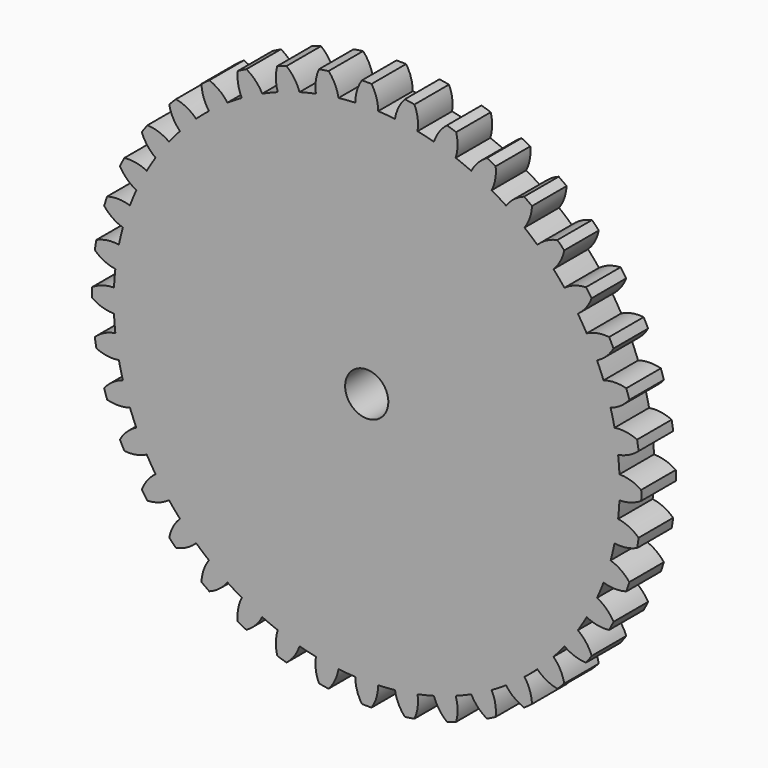
from build123d import *

# Parameters (mm, degrees)
F1_DEPTH = 3
F2_R     = 1.5
F3_DEPTH = 3.001
F4_R     = 3
F4_R_2   = 1.5
F5_DEPTH = 3


with BuildPart() as f1:
    # F0 (on Front) → F1 (new body)
    with BuildSketch(Plane.XZ):
        with BuildLine():
            ThreePointArc((17.552015, -0.794783), (17.565503, -0.397493), (17.57, 0))
            ThreePointArc((17.57, 0), (17.565503, 0.397493), (17.552015, 0.794783))
            ThreePointArc((17.552015, 0.794783), (17.515838, 1.378526), (17.460252, 1.960742))
            ThreePointArc((17.460252, 1.960742), (17.353684, 2.748554), (17.211589, 3.530738))
            ThreePointArc((17.211589, 3.530738), (17.08454, 4.101635), (16.93856, 4.667987))
            ThreePointArc((16.93856, 4.667987), (16.710063, 5.429429), (16.447356, 6.179755))
            ThreePointArc((16.447356, 6.179755), (16.232563, 6.723748), (15.999784, 7.260291))
            ThreePointArc((15.999784, 7.260291), (15.654985, 7.976613), (15.278135, 8.676605))
            ThreePointArc((15.278135, 8.676605), (14.980888, 9.1803), (14.66704, 9.673822))
            ThreePointArc((14.66704, 9.673822), (14.214429, 10.327387), (13.732716, 10.959809))
            ThreePointArc((13.732716, 10.959809), (13.360333, 11.410802), (12.973145, 11.849152))
            ThreePointArc((12.973145, 11.849152), (12.423866, 12.423866), (11.849152, 12.973145))
            ThreePointArc((11.849152, 12.973145), (11.410802, 13.360333), (10.959809, 13.732716))
            ThreePointArc((10.959809, 13.732716), (10.327387, 14.214429), (9.673822, 14.66704))
            ThreePointArc((9.673822, 14.66704), (9.1803, 14.980888), (8.676605, 15.278135))
            ThreePointArc((8.676605, 15.278135), (7.976613, 15.654985), (7.260291, 15.999784))
            ThreePointArc((7.260291, 15.999784), (6.723748, 16.232563), (6.179755, 16.447356))
            ThreePointArc((6.179755, 16.447356), (5.429429, 16.710063), (4.667987, 16.93856))
            ThreePointArc((4.667987, 16.93856), (4.101635, 17.08454), (3.530738, 17.211589))
            ThreePointArc((3.530738, 17.211589), (2.748554, 17.353684), (1.960742, 17.460252))
            ThreePointArc((1.960742, 17.460252), (1.378526, 17.515838), (0.794783, 17.552015))
            ThreePointArc((0.794783, 17.552015), (0, 17.57), (-0.794783, 17.552015))
            ThreePointArc((-0.794783, 17.552015), (-1.378526, 17.515838), (-1.960742, 17.460252))
            ThreePointArc((-1.960742, 17.460252), (-2.748554, 17.353684), (-3.530738, 17.211589))
            ThreePointArc((-3.530738, 17.211589), (-4.101635, 17.08454), (-4.667987, 16.93856))
            ThreePointArc((-4.667987, 16.93856), (-5.429429, 16.710063), (-6.179755, 16.447356))
            ThreePointArc((-6.179755, 16.447356), (-6.723748, 16.232563), (-7.260291, 15.999784))
            ThreePointArc((-7.260291, 15.999784), (-7.976613, 15.654985), (-8.676605, 15.278135))
            ThreePointArc((-8.676605, 15.278135), (-9.1803, 14.980888), (-9.673822, 14.66704))
            ThreePointArc((-9.673822, 14.66704), (-10.327387, 14.214429), (-10.959809, 13.732716))
            ThreePointArc((-10.959809, 13.732716), (-11.410802, 13.360333), (-11.849152, 12.973145))
            ThreePointArc((-11.849152, 12.973145), (-12.423866, 12.423866), (-12.973145, 11.849152))
            ThreePointArc((-12.973145, 11.849152), (-13.360333, 11.410802), (-13.732716, 10.959809))
            ThreePointArc((-13.732716, 10.959809), (-14.214429, 10.327387), (-14.66704, 9.673822))
            ThreePointArc((-14.66704, 9.673822), (-14.980888, 9.1803), (-15.278135, 8.676605))
            ThreePointArc((-15.278135, 8.676605), (-15.654985, 7.976613), (-15.999784, 7.260291))
            ThreePointArc((-15.999784, 7.260291), (-16.232563, 6.723748), (-16.447356, 6.179755))
            ThreePointArc((-16.447356, 6.179755), (-16.710063, 5.429429), (-16.93856, 4.667987))
            ThreePointArc((-16.93856, 4.667987), (-17.08454, 4.101635), (-17.211589, 3.530738))
            ThreePointArc((-17.211589, 3.530738), (-17.353684, 2.748554), (-17.460252, 1.960742))
            ThreePointArc((-17.460252, 1.960742), (-17.515838, 1.378526), (-17.552015, 0.794783))
            ThreePointArc((-17.552015, 0.794783), (-17.57, 0), (-17.552015, -0.794783))
            ThreePointArc((-17.552015, -0.794783), (-17.515838, -1.378526), (-17.460252, -1.960742))
            ThreePointArc((-17.460252, -1.960742), (-17.353684, -2.748554), (-17.211589, -3.530738))
            ThreePointArc((-17.211589, -3.530738), (-17.08454, -4.101635), (-16.93856, -4.667987))
            ThreePointArc((-16.93856, -4.667987), (-16.710063, -5.429429), (-16.447356, -6.179755))
            ThreePointArc((-16.447356, -6.179755), (-16.232563, -6.723748), (-15.999784, -7.260291))
            ThreePointArc((-15.999784, -7.260291), (-15.654985, -7.976613), (-15.278135, -8.676605))
            ThreePointArc((-15.278135, -8.676605), (-14.980888, -9.1803), (-14.66704, -9.673822))
            ThreePointArc((-14.66704, -9.673822), (-14.214429, -10.327387), (-13.732716, -10.959809))
            ThreePointArc((-13.732716, -10.959809), (-13.360333, -11.410802), (-12.973145, -11.849152))
            ThreePointArc((-12.973145, -11.849152), (-12.423866, -12.423866), (-11.849152, -12.973145))
            ThreePointArc((-11.849152, -12.973145), (-11.410802, -13.360333), (-10.959809, -13.732716))
            ThreePointArc((-10.959809, -13.732716), (-10.327387, -14.214429), (-9.673822, -14.66704))
            ThreePointArc((-9.673822, -14.66704), (-9.1803, -14.980888), (-8.676605, -15.278135))
            ThreePointArc((-8.676605, -15.278135), (-7.976613, -15.654985), (-7.260291, -15.999784))
            ThreePointArc((-7.260291, -15.999784), (-6.723748, -16.232563), (-6.179755, -16.447356))
            ThreePointArc((-6.179755, -16.447356), (-5.429429, -16.710063), (-4.667987, -16.93856))
            ThreePointArc((-4.667987, -16.93856), (-4.101635, -17.08454), (-3.530738, -17.211589))
            ThreePointArc((-3.530738, -17.211589), (-2.748554, -17.353684), (-1.960742, -17.460252))
            ThreePointArc((-1.960742, -17.460252), (-1.378526, -17.515838), (-0.794783, -17.552015))
            ThreePointArc((-0.794783, -17.552015), (0, -17.57), (0.794783, -17.552015))
            ThreePointArc((0.794783, -17.552015), (1.378526, -17.515838), (1.960742, -17.460252))
            ThreePointArc((1.960742, -17.460252), (2.748554, -17.353684), (3.530738, -17.211589))
            ThreePointArc((3.530738, -17.211589), (4.101635, -17.08454), (4.667987, -16.93856))
            ThreePointArc((4.667987, -16.93856), (5.429429, -16.710063), (6.179755, -16.447356))
            ThreePointArc((6.179755, -16.447356), (6.723748, -16.232563), (7.260291, -15.999784))
            ThreePointArc((7.260291, -15.999784), (7.976613, -15.654985), (8.676605, -15.278135))
            ThreePointArc((8.676605, -15.278135), (9.1803, -14.980888), (9.673822, -14.66704))
            ThreePointArc((9.673822, -14.66704), (10.327387, -14.214429), (10.959809, -13.732716))
            ThreePointArc((10.959809, -13.732716), (11.410802, -13.360333), (11.849152, -12.973145))
            ThreePointArc((11.849152, -12.973145), (12.423866, -12.423866), (12.973145, -11.849152))
            ThreePointArc((12.973145, -11.849152), (13.360333, -11.410802), (13.732716, -10.959809))
            ThreePointArc((13.732716, -10.959809), (14.214429, -10.327387), (14.66704, -9.673822))
            ThreePointArc((14.66704, -9.673822), (14.980888, -9.1803), (15.278135, -8.676605))
            ThreePointArc((15.278135, -8.676605), (15.654985, -7.976613), (15.999784, -7.260291))
            ThreePointArc((15.999784, -7.260291), (16.232563, -6.723748), (16.447356, -6.179755))
            ThreePointArc((16.447356, -6.179755), (16.710063, -5.429429), (16.93856, -4.667987))
            ThreePointArc((16.93856, -4.667987), (17.08454, -4.101635), (17.211589, -3.530738))
            ThreePointArc((17.211589, -3.530738), (17.353684, -2.748554), (17.460252, -1.960742))
            ThreePointArc((17.460252, -1.960742), (17.515838, -1.378526), (17.552015, -0.794783))
        make_face()
        with BuildLine():
            ThreePointArc((17.552015, 0.794783), (17.565503, 0.397493), (17.57, 0))
            ThreePointArc((17.57, 0), (17.565503, -0.397493), (17.552015, -0.794783))
            ThreePointArc((17.552015, -0.794783), (18.343122, -0.677387), (19.067016, -0.33737))
            ThreePointArc((19.067016, -0.33737), (19.07, 0), (19.067016, 0.33737))
            ThreePointArc((19.067016, 0.33737), (18.343122, 0.677387), (17.552015, 0.794783))
        make_face()
        with BuildLine():
            ThreePointArc((17.211589, 3.530738), (17.353684, 2.748554), (17.460252, 1.960742))
            ThreePointArc((17.460252, 1.960742), (18.223254, 2.20045), (18.885045, 2.649522))
            ThreePointArc((18.885045, 2.649522), (18.835217, 2.983205), (18.779493, 3.315955))
            ThreePointArc((18.779493, 3.315955), (18.011321, 3.538543), (17.211589, 3.530738))
        make_face()
        with BuildLine():
            ThreePointArc((18.885045, -2.649522), (18.223254, -2.20045), (17.460252, -1.960742))
            ThreePointArc((17.460252, -1.960742), (17.353684, -2.748554), (17.211589, -3.530738))
            ThreePointArc((17.211589, -3.530738), (18.011321, -3.538543), (18.779493, -3.315955))
            ThreePointArc((18.779493, -3.315955), (18.835217, -2.983205), (18.885045, -2.649522))
        make_face()
        with BuildLine():
            ThreePointArc((16.447356, 6.179755), (16.710063, 5.429429), (16.93856, 4.667987))
            ThreePointArc((16.93856, 4.667987), (17.65467, 5.024103), (18.238062, 5.571174))
            ThreePointArc((18.238062, 5.571174), (18.136648, 5.892954), (18.029556, 6.21289))
            ThreePointArc((18.029556, 6.21289), (17.236022, 6.312569), (16.447356, 6.179755))
        make_face()
        with BuildLine():
            ThreePointArc((18.238062, -5.571174), (17.65467, -5.024103), (16.93856, -4.667987))
            ThreePointArc((16.93856, -4.667987), (16.710063, -5.429429), (16.447356, -6.179755))
            ThreePointArc((16.447356, -6.179755), (17.236022, -6.312569), (18.029556, -6.21289))
            ThreePointArc((18.029556, -6.21289), (18.136648, -5.892954), (18.238062, -5.571174))
        make_face()
        with BuildLine():
            ThreePointArc((15.278135, 8.676605), (15.654985, 7.976613), (15.999784, 7.260291))
            ThreePointArc((15.999784, 7.260291), (16.651369, 7.724047), (17.141998, 8.355645))
            ThreePointArc((17.141998, 8.355645), (16.991494, 8.657599), (16.835672, 8.956843))
            ThreePointArc((16.835672, 8.956843), (16.036314, 8.931159), (15.278135, 8.676605))
        make_face()
        with BuildLine():
            ThreePointArc((17.141998, -8.355645), (16.651369, -7.724047), (15.999784, -7.260291))
            ThreePointArc((15.999784, -7.260291), (15.654985, -7.976613), (15.278135, -8.676605))
            ThreePointArc((15.278135, -8.676605), (16.036314, -8.931159), (16.835672, -8.956843))
            ThreePointArc((16.835672, -8.956843), (16.991494, -8.657599), (17.141998, -8.355645))
        make_face()
        with BuildLine():
            ThreePointArc((13.732716, 10.959809), (14.214429, 10.327387), (14.66704, 9.673822))
            ThreePointArc((14.66704, 9.673822), (15.238055, 10.233799), (15.623841, 10.934372))
            ThreePointArc((15.623841, 10.934372), (15.427954, 11.209065), (15.227238, 11.480249))
            ThreePointArc((15.227238, 11.480249), (14.44174, 11.329834), (13.732716, 10.959809))
        make_face()
        with BuildLine():
            ThreePointArc((15.623841, -10.934372), (15.238055, -10.233799), (14.66704, -9.673822))
            ThreePointArc((14.66704, -9.673822), (14.214429, -10.327387), (13.732716, -10.959809))
            ThreePointArc((13.732716, -10.959809), (14.44174, -11.329834), (15.227238, -11.480249))
            ThreePointArc((15.227238, -11.480249), (15.427954, -11.209065), (15.623841, -10.934372))
        make_face()
        with BuildLine():
            ThreePointArc((11.849152, 12.973145), (12.423866, 12.423866), (12.973145, 11.849152))
            ThreePointArc((12.973145, 11.849152), (13.449531, 12.491561), (13.720973, 13.243859))
            ThreePointArc((13.720973, 13.243859), (13.484526, 13.484526), (13.243859, 13.720973))
            ThreePointArc((13.243859, 13.720973), (12.491561, 13.449531), (11.849152, 12.973145))
        make_face()
        with BuildLine():
            ThreePointArc((13.720973, -13.243859), (13.449531, -12.491561), (12.973145, -11.849152))
            ThreePointArc((12.973145, -11.849152), (12.423866, -12.423866), (11.849152, -12.973145))
            ThreePointArc((11.849152, -12.973145), (12.491561, -13.449531), (13.243859, -13.720973))
            ThreePointArc((13.243859, -13.720973), (13.484526, -13.484526), (13.720973, -13.243859))
        make_face()
        with BuildLine():
            ThreePointArc((9.673822, 14.66704), (10.327387, 14.214429), (10.959809, 13.732716))
            ThreePointArc((10.959809, 13.732716), (11.329834, 14.44174), (11.480249, 15.227238))
            ThreePointArc((11.480249, 15.227238), (11.209065, 15.427954), (10.934372, 15.623841))
            ThreePointArc((10.934372, 15.623841), (10.233799, 15.238055), (9.673822, 14.66704))
        make_face()
        with BuildLine():
            ThreePointArc((11.480249, -15.227238), (11.329834, -14.44174), (10.959809, -13.732716))
            ThreePointArc((10.959809, -13.732716), (10.327387, -14.214429), (9.673822, -14.66704))
            ThreePointArc((9.673822, -14.66704), (10.233799, -15.238055), (10.934372, -15.623841))
            ThreePointArc((10.934372, -15.623841), (11.209065, -15.427954), (11.480249, -15.227238))
        make_face()
        with BuildLine():
            ThreePointArc((7.260291, 15.999784), (7.976613, 15.654985), (8.676605, 15.278135))
            ThreePointArc((8.676605, 15.278135), (8.931159, 16.036314), (8.956843, 16.835672))
            ThreePointArc((8.956843, 16.835672), (8.657599, 16.991494), (8.355645, 17.141998))
            ThreePointArc((8.355645, 17.141998), (7.724047, 16.651369), (7.260291, 15.999784))
        make_face()
        with BuildLine():
            ThreePointArc((8.956843, -16.835672), (8.931159, -16.036314), (8.676605, -15.278135))
            ThreePointArc((8.676605, -15.278135), (7.976613, -15.654985), (7.260291, -15.999784))
            ThreePointArc((7.260291, -15.999784), (7.724047, -16.651369), (8.355645, -17.141998))
            ThreePointArc((8.355645, -17.141998), (8.657599, -16.991494), (8.956843, -16.835672))
        make_face()
        with BuildLine():
            ThreePointArc((4.667987, 16.93856), (5.429429, 16.710063), (6.179755, 16.447356))
            ThreePointArc((6.179755, 16.447356), (6.312569, 17.236022), (6.21289, 18.029556))
            ThreePointArc((6.21289, 18.029556), (5.892954, 18.136648), (5.571174, 18.238062))
            ThreePointArc((5.571174, 18.238062), (5.024103, 17.65467), (4.667987, 16.93856))
        make_face()
        with BuildLine():
            ThreePointArc((6.21289, -18.029556), (6.312569, -17.236022), (6.179755, -16.447356))
            ThreePointArc((6.179755, -16.447356), (5.429429, -16.710063), (4.667987, -16.93856))
            ThreePointArc((4.667987, -16.93856), (5.024103, -17.65467), (5.571174, -18.238062))
            ThreePointArc((5.571174, -18.238062), (5.892954, -18.136648), (6.21289, -18.029556))
        make_face()
        with BuildLine():
            ThreePointArc((1.960742, 17.460252), (2.748554, 17.353684), (3.530738, 17.211589))
            ThreePointArc((3.530738, 17.211589), (3.538543, 18.011321), (3.315955, 18.779493))
            ThreePointArc((3.315955, 18.779493), (2.983205, 18.835217), (2.649522, 18.885045))
            ThreePointArc((2.649522, 18.885045), (2.20045, 18.223254), (1.960742, 17.460252))
        make_face()
        with BuildLine():
            ThreePointArc((3.315955, -18.779493), (3.538543, -18.011321), (3.530738, -17.211589))
            ThreePointArc((3.530738, -17.211589), (2.748554, -17.353684), (1.960742, -17.460252))
            ThreePointArc((1.960742, -17.460252), (2.20045, -18.223254), (2.649522, -18.885045))
            ThreePointArc((2.649522, -18.885045), (2.983205, -18.835217), (3.315955, -18.779493))
        make_face()
        with BuildLine():
            ThreePointArc((-0.794783, 17.552015), (0, 17.57), (0.794783, 17.552015))
            ThreePointArc((0.794783, 17.552015), (0.677387, 18.343122), (0.33737, 19.067016))
            ThreePointArc((0.33737, 19.067016), (0, 19.07), (-0.33737, 19.067016))
            ThreePointArc((-0.33737, 19.067016), (-0.677387, 18.343122), (-0.794783, 17.552015))
        make_face()
        with BuildLine():
            ThreePointArc((0.33737, -19.067016), (0.677387, -18.343122), (0.794783, -17.552015))
            ThreePointArc((0.794783, -17.552015), (0, -17.57), (-0.794783, -17.552015))
            ThreePointArc((-0.794783, -17.552015), (-0.677387, -18.343122), (-0.33737, -19.067016))
            ThreePointArc((-0.33737, -19.067016), (0, -19.07), (0.33737, -19.067016))
        make_face()
        with BuildLine():
            ThreePointArc((-3.530738, 17.211589), (-2.748554, 17.353684), (-1.960742, 17.460252))
            ThreePointArc((-1.960742, 17.460252), (-2.20045, 18.223254), (-2.649522, 18.885045))
            ThreePointArc((-2.649522, 18.885045), (-2.983205, 18.835217), (-3.315955, 18.779493))
            ThreePointArc((-3.315955, 18.779493), (-3.538543, 18.011321), (-3.530738, 17.211589))
        make_face()
        with BuildLine():
            ThreePointArc((-2.649522, -18.885045), (-2.20045, -18.223254), (-1.960742, -17.460252))
            ThreePointArc((-1.960742, -17.460252), (-2.748554, -17.353684), (-3.530738, -17.211589))
            ThreePointArc((-3.530738, -17.211589), (-3.538543, -18.011321), (-3.315955, -18.779493))
            ThreePointArc((-3.315955, -18.779493), (-2.983205, -18.835217), (-2.649522, -18.885045))
        make_face()
        with BuildLine():
            ThreePointArc((-6.179755, 16.447356), (-5.429429, 16.710063), (-4.667987, 16.93856))
            ThreePointArc((-4.667987, 16.93856), (-5.024103, 17.65467), (-5.571174, 18.238062))
            ThreePointArc((-5.571174, 18.238062), (-5.892954, 18.136648), (-6.21289, 18.029556))
            ThreePointArc((-6.21289, 18.029556), (-6.312569, 17.236022), (-6.179755, 16.447356))
        make_face()
        with BuildLine():
            ThreePointArc((-5.571174, -18.238062), (-5.024103, -17.65467), (-4.667987, -16.93856))
            ThreePointArc((-4.667987, -16.93856), (-5.429429, -16.710063), (-6.179755, -16.447356))
            ThreePointArc((-6.179755, -16.447356), (-6.312569, -17.236022), (-6.21289, -18.029556))
            ThreePointArc((-6.21289, -18.029556), (-5.892954, -18.136648), (-5.571174, -18.238062))
        make_face()
        with BuildLine():
            ThreePointArc((-8.676605, 15.278135), (-7.976613, 15.654985), (-7.260291, 15.999784))
            ThreePointArc((-7.260291, 15.999784), (-7.724047, 16.651369), (-8.355645, 17.141998))
            ThreePointArc((-8.355645, 17.141998), (-8.657599, 16.991494), (-8.956843, 16.835672))
            ThreePointArc((-8.956843, 16.835672), (-8.931159, 16.036314), (-8.676605, 15.278135))
        make_face()
        with BuildLine():
            ThreePointArc((-8.355645, -17.141998), (-7.724047, -16.651369), (-7.260291, -15.999784))
            ThreePointArc((-7.260291, -15.999784), (-7.976613, -15.654985), (-8.676605, -15.278135))
            ThreePointArc((-8.676605, -15.278135), (-8.931159, -16.036314), (-8.956843, -16.835672))
            ThreePointArc((-8.956843, -16.835672), (-8.657599, -16.991494), (-8.355645, -17.141998))
        make_face()
        with BuildLine():
            ThreePointArc((-10.959809, 13.732716), (-10.327387, 14.214429), (-9.673822, 14.66704))
            ThreePointArc((-9.673822, 14.66704), (-10.233799, 15.238055), (-10.934372, 15.623841))
            ThreePointArc((-10.934372, 15.623841), (-11.209065, 15.427954), (-11.480249, 15.227238))
            ThreePointArc((-11.480249, 15.227238), (-11.329834, 14.44174), (-10.959809, 13.732716))
        make_face()
        with BuildLine():
            ThreePointArc((-10.934372, -15.623841), (-10.233799, -15.238055), (-9.673822, -14.66704))
            ThreePointArc((-9.673822, -14.66704), (-10.327387, -14.214429), (-10.959809, -13.732716))
            ThreePointArc((-10.959809, -13.732716), (-11.329834, -14.44174), (-11.480249, -15.227238))
            ThreePointArc((-11.480249, -15.227238), (-11.209065, -15.427954), (-10.934372, -15.623841))
        make_face()
        with BuildLine():
            ThreePointArc((-12.973145, 11.849152), (-12.423866, 12.423866), (-11.849152, 12.973145))
            ThreePointArc((-11.849152, 12.973145), (-12.491561, 13.449531), (-13.243859, 13.720973))
            ThreePointArc((-13.243859, 13.720973), (-13.484526, 13.484526), (-13.720973, 13.243859))
            ThreePointArc((-13.720973, 13.243859), (-13.449531, 12.491561), (-12.973145, 11.849152))
        make_face()
        with BuildLine():
            ThreePointArc((-13.243859, -13.720973), (-12.491561, -13.449531), (-11.849152, -12.973145))
            ThreePointArc((-11.849152, -12.973145), (-12.423866, -12.423866), (-12.973145, -11.849152))
            ThreePointArc((-12.973145, -11.849152), (-13.449531, -12.491561), (-13.720973, -13.243859))
            ThreePointArc((-13.720973, -13.243859), (-13.484526, -13.484526), (-13.243859, -13.720973))
        make_face()
        with BuildLine():
            ThreePointArc((-14.66704, 9.673822), (-14.214429, 10.327387), (-13.732716, 10.959809))
            ThreePointArc((-13.732716, 10.959809), (-14.44174, 11.329834), (-15.227238, 11.480249))
            ThreePointArc((-15.227238, 11.480249), (-15.427954, 11.209065), (-15.623841, 10.934372))
            ThreePointArc((-15.623841, 10.934372), (-15.238055, 10.233799), (-14.66704, 9.673822))
        make_face()
        with BuildLine():
            ThreePointArc((-15.227238, -11.480249), (-14.44174, -11.329834), (-13.732716, -10.959809))
            ThreePointArc((-13.732716, -10.959809), (-14.214429, -10.327387), (-14.66704, -9.673822))
            ThreePointArc((-14.66704, -9.673822), (-15.238055, -10.233799), (-15.623841, -10.934372))
            ThreePointArc((-15.623841, -10.934372), (-15.427954, -11.209065), (-15.227238, -11.480249))
        make_face()
        with BuildLine():
            ThreePointArc((-15.999784, 7.260291), (-15.654985, 7.976613), (-15.278135, 8.676605))
            ThreePointArc((-15.278135, 8.676605), (-16.036314, 8.931159), (-16.835672, 8.956843))
            ThreePointArc((-16.835672, 8.956843), (-16.991494, 8.657599), (-17.141998, 8.355645))
            ThreePointArc((-17.141998, 8.355645), (-16.651369, 7.724047), (-15.999784, 7.260291))
        make_face()
        with BuildLine():
            ThreePointArc((-16.835672, -8.956843), (-16.036314, -8.931159), (-15.278135, -8.676605))
            ThreePointArc((-15.278135, -8.676605), (-15.654985, -7.976613), (-15.999784, -7.260291))
            ThreePointArc((-15.999784, -7.260291), (-16.651369, -7.724047), (-17.141998, -8.355645))
            ThreePointArc((-17.141998, -8.355645), (-16.991494, -8.657599), (-16.835672, -8.956843))
        make_face()
        with BuildLine():
            ThreePointArc((-16.93856, 4.667987), (-16.710063, 5.429429), (-16.447356, 6.179755))
            ThreePointArc((-16.447356, 6.179755), (-17.236022, 6.312569), (-18.029556, 6.21289))
            ThreePointArc((-18.029556, 6.21289), (-18.136648, 5.892954), (-18.238062, 5.571174))
            ThreePointArc((-18.238062, 5.571174), (-17.65467, 5.024103), (-16.93856, 4.667987))
        make_face()
        with BuildLine():
            ThreePointArc((-18.029556, -6.21289), (-17.236022, -6.312569), (-16.447356, -6.179755))
            ThreePointArc((-16.447356, -6.179755), (-16.710063, -5.429429), (-16.93856, -4.667987))
            ThreePointArc((-16.93856, -4.667987), (-17.65467, -5.024103), (-18.238062, -5.571174))
            ThreePointArc((-18.238062, -5.571174), (-18.136648, -5.892954), (-18.029556, -6.21289))
        make_face()
        with BuildLine():
            ThreePointArc((-17.460252, 1.960742), (-17.353684, 2.748554), (-17.211589, 3.530738))
            ThreePointArc((-17.211589, 3.530738), (-18.011321, 3.538543), (-18.779493, 3.315955))
            ThreePointArc((-18.779493, 3.315955), (-18.835217, 2.983205), (-18.885045, 2.649522))
            ThreePointArc((-18.885045, 2.649522), (-18.223254, 2.20045), (-17.460252, 1.960742))
        make_face()
        with BuildLine():
            ThreePointArc((-18.779493, -3.315955), (-18.011321, -3.538543), (-17.211589, -3.530738))
            ThreePointArc((-17.211589, -3.530738), (-17.353684, -2.748554), (-17.460252, -1.960742))
            ThreePointArc((-17.460252, -1.960742), (-18.223254, -2.20045), (-18.885045, -2.649522))
            ThreePointArc((-18.885045, -2.649522), (-18.835217, -2.983205), (-18.779493, -3.315955))
        make_face()
        with BuildLine():
            ThreePointArc((-17.552015, -0.794783), (-17.57, 0), (-17.552015, 0.794783))
            ThreePointArc((-17.552015, 0.794783), (-18.343122, 0.677387), (-19.067016, 0.33737))
            ThreePointArc((-19.067016, 0.33737), (-19.07, 0), (-19.067016, -0.33737))
            ThreePointArc((-19.067016, -0.33737), (-18.343122, -0.677387), (-17.552015, -0.794783))
        make_face()
    extrude(amount=F1_DEPTH)

    # F2 (on face) → F3 (cut, through all)
    with BuildSketch(Plane(origin=(0, 0, 0), x_dir=(-1, 0, 0), z_dir=(0, 1, 0))):
        Circle(F2_R)
    extrude(amount=-F3_DEPTH, mode=Mode.SUBTRACT)

    # F4 (on face) → F5 (join)
    with BuildSketch(Plane(origin=(0, 0, 0), x_dir=(-1, 0, 0), z_dir=(0, 1, 0))):
        Circle(F4_R)
        Circle(F4_R_2, mode=Mode.SUBTRACT)
    extrude(amount=F5_DEPTH)


solid = f1.part
